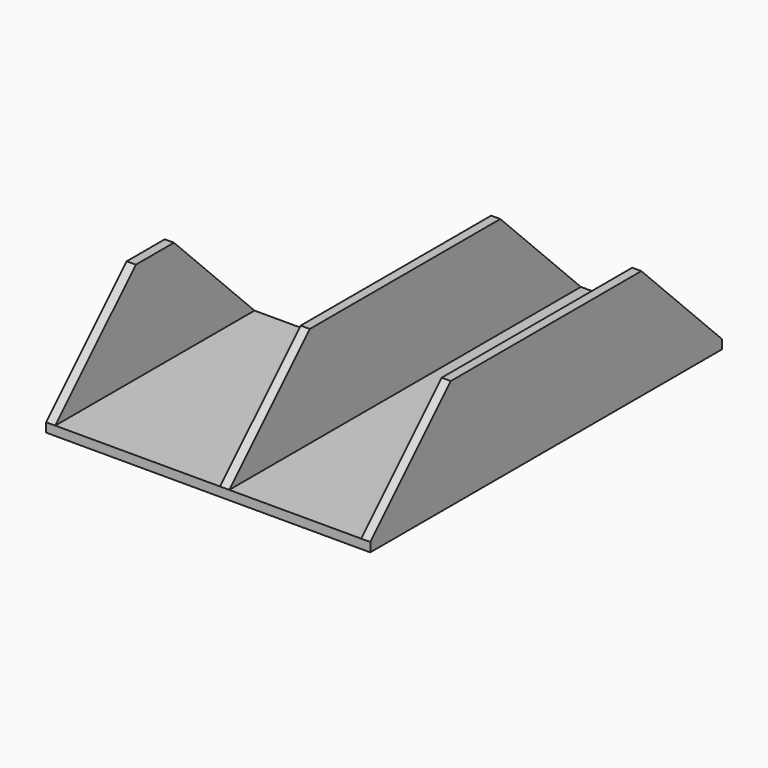
from build123d import *

# Parameters (mm, degrees)
F0_W     = 45.72
F0_H     = 152.4
F1_DEPTH = 3.175
F3_DEPTH = 3.175
F5_DEPTH = 3.175
F6_W     = 57.15
F6_H     = 86.36
F7_DEPTH = 3.175
F9_DEPTH = 3.175


with BuildPart() as f1:
    # F0 (on Top) → F1 (new body)
    with BuildSketch(Plane.XY):
        with Locations((22.86, -76.2)):
            Rectangle(F0_W, F0_H)
    extrude(amount=F1_DEPTH)

    # F2 (on face) → F3 (join)
    with BuildSketch(Plane.YZ.offset(45.72)):
        Polygon((-152.4, 3.175), (-152.4, 0), (0, 0), (0, 3.175), (-34.925, 38.1), (-117.475, 38.1), align=None)
    extrude(amount=F3_DEPTH)

    # F4 (on face) → F5 (join)
    with BuildSketch(Plane(origin=(0, 0, 0), x_dir=(0, -1, 0), z_dir=(-1, 0, 0))):
        Polygon((34.925, 38.1), (0, 3.175), (152.4, 3.175), (117.475, 38.1), align=None)
        Polygon((0, 3.175), (0, 0), (152.4, 0), (152.4, 3.175), (117.475, 38.1), (34.925, 38.1), align=None)
    extrude(amount=F5_DEPTH)

    # F6 (on face) → F7 (join)
    with BuildSketch(Plane(origin=(0, 0, 0), x_dir=(1, 0, 0), z_dir=(0, 0, -1))):
        with Locations((-31.75, 109.22)):
            Rectangle(F6_W, F6_H)
    extrude(amount=-F7_DEPTH)

    # F8 (on face) → F9 (join)
    with BuildSketch(Plane(origin=(-60.325, 0, 0), x_dir=(0, -1, 0), z_dir=(-1, 0, 0))):
        Polygon((66.04, 0), (152.4, 0), (152.4, 3.175), (117.475, 38.1), (100.965, 38.1), (66.04, 3.175), align=None)
    extrude(amount=F9_DEPTH)


solid = f1.part
